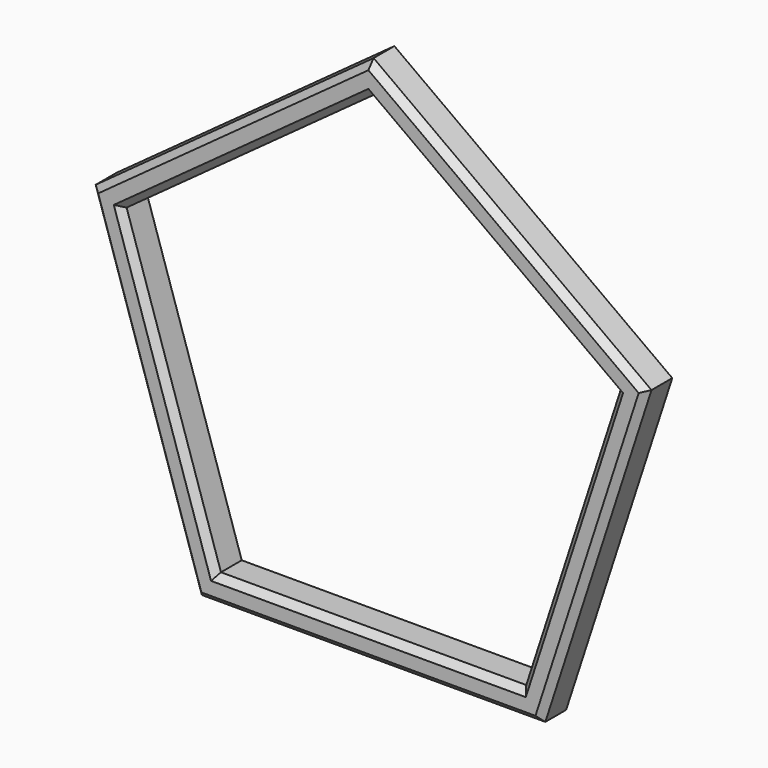
from build123d import *

# Parameters (mm, degrees)
F1_DEPTH = 6.35
F2_SIZE2 = 1.27
F2_SIZE  = 1.27


with BuildPart() as f1:
    # F0 (on Front) → F1 (new body)
    with BuildSketch(Plane.XZ):
        Polygon((54.35288, 17.660321), (0, 57.15), (-54.35288, 17.660321), (-33.591927, -46.235321), (33.591927, -46.235321), align=None)
        Polygon((-48.313671, 15.698063), (0, 50.8), (48.313671, 15.698063), (29.859491, -41.098063), (-29.859491, -41.098063), align=None, mode=Mode.SUBTRACT)
    extrude(amount=F1_DEPTH)

    # F2
    f2_edges = [f1.edges().sort_by_distance(p)[0] for p in [
        (43.972404, -6.35, -14.2875),
        (27.17644, -6.35, 37.405161),
        (-27.17644, -6.35, 37.405161),
        (-43.972404, -6.35, -14.2875),
        (0, -6.35, -46.235321),
        (-24.156836, -6.35, 33.249032),
        (24.156836, -6.35, 33.249032),
        (39.086581, -6.35, -12.7),
        (0, -6.35, -41.098063),
        (-39.086581, -6.35, -12.7),
    ]]
    chamfer(f2_edges, length=F2_SIZE, length2=F2_SIZE2)


solid = f1.part
